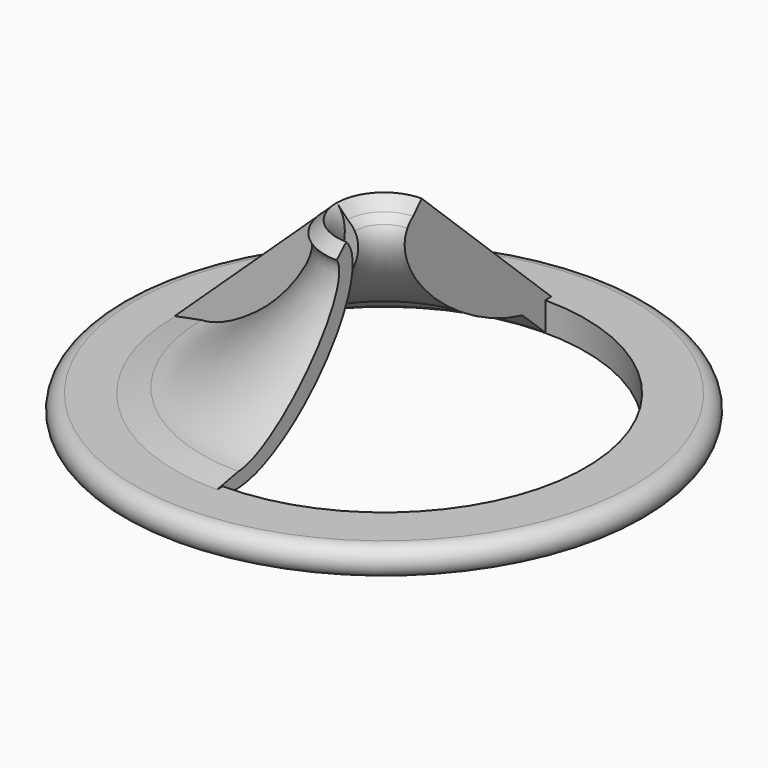
from build123d import *

# Parameters (mm, degrees)
F3_ANGLE = 90
F5_ANGLE = 90


with BuildPart() as f1:
    # F0 (on Front) → F1 (revolve)
    with BuildSketch(Plane.XZ):
        with BuildLine():
            Line((-21, 16.5), (-26, 16.5))
            ThreePointArc((-26, 16.5), (-27.5, 15), (-26, 13.5))
            Line((-26, 13.5), (-21, 13.5))
            Line((-21, 13.5), (-21, 16.5))
        make_face()
    revolve(axis=Axis((0, 0, 12.5856157392), (0, 0, -1)))

    # F2 (on Front) → F3 (revolve)
    with BuildSketch(Plane.XZ):
        with BuildLine():
            Line((-22.8234108924, 15.5310801728), (-20.9705103189, 13.5594885796))
            Line((-20.9705103189, 13.5594885796), (-18.0268532264, 16.3259357148))
            add(Edge.make_bspline(
                [(-18.0268532264, 16.3259357148), (2.5248612882, 21.0512280006), (-3.0509901699, 30.4002426565)],
                knots=[4.0760424662, 4.0760424662, 4.0760424662, 6.2831853072, 6.2831853072, 6.2831853072], degree=2, weights=[1, 0.4504103592, 1]))
            Line((-3.0509901699, 30.4002426565), (-3.7834591359, 31.1796312952))
            Line((-3.7834591359, 31.1796312952), (-4.9038907434, 32.3718342497))
            Line((-4.9038907434, 32.3718342497), (-22.8234108924, 15.5310801728))
        make_face()
        with BuildLine():
            Line((-3.7834591359, 31.1796312952), (-3.0509901699, 30.4002426565))
            add(Edge.make_bspline(
                [(-3.0509901699, 30.4002426565), (-3.3209830741, 30.8529390092), (-3.7834591359, 31.1796312952)],
                knots=[0, 0, 0, 0.1913811194, 0.1913811194, 0.1913811194], degree=2, weights=[1, 0.9954251509, 1]))
        make_face()
    revolve(axis=Axis((0, 0, 24.1673644632), (0, 0, -1)), revolution_arc=F3_ANGLE)

    # F4 (on Front) → F5 (revolve)
    with BuildSketch(Plane.XZ):
        with BuildLine():
            Line((-4.9122721049, 32.3865450188), (-6.1626020759, 31.2069066763))
            Line((-6.1626020759, 31.2069066763), (-6.1446281649, 31.1877814126))
            add(Edge.make_bspline(
                [(-18.9718568385, 17.0376612359), (-14.9669974913, 17.146964893), (-9.6910325347, 22.9670480991), (-4.4150675782, 28.7871313051), (-6.1446281649, 31.1877814126)],
                knots=[3.5205813128, 3.5205813128, 3.5205813128, 4.8740420257, 4.8740420257, 6.2275027386, 6.2275027386, 6.2275027386], degree=2, weights=[1, 0.7796244878, 1, 0.7796244878, 1]))
            Line((-18.9718568385, 17.0376612359), (-21.7830147594, 16.4930532639))
            Line((-21.7830147594, 16.4930532639), (-21.7830147594, 16.4715316409))
            add(Edge.make_bspline(
                [(-21.7830147594, 16.4715316409), (-17.9606831235, 12.4873048362), (-9.5363391364, 20.4118410334), (-1.1119951493, 28.3363772305), (-4.8897280053, 32.3625568147)],
                knots=[0.0052940421, 0.0052940421, 0.0052940421, 1.5734433479, 1.5734433479, 3.1415926536, 3.1415926536, 3.1415926536], degree=2, weights=[1, 0.7080420249, 1, 0.7080420249, 1]))
            Line((-4.8897280053, 32.3625568147), (-4.9122721049, 32.3865450188))
        make_face()
    revolve(axis=Axis((0, 0, 25.1945196651), (0, 0, 1)), revolution_arc=F5_ANGLE)


solid = f1.part
